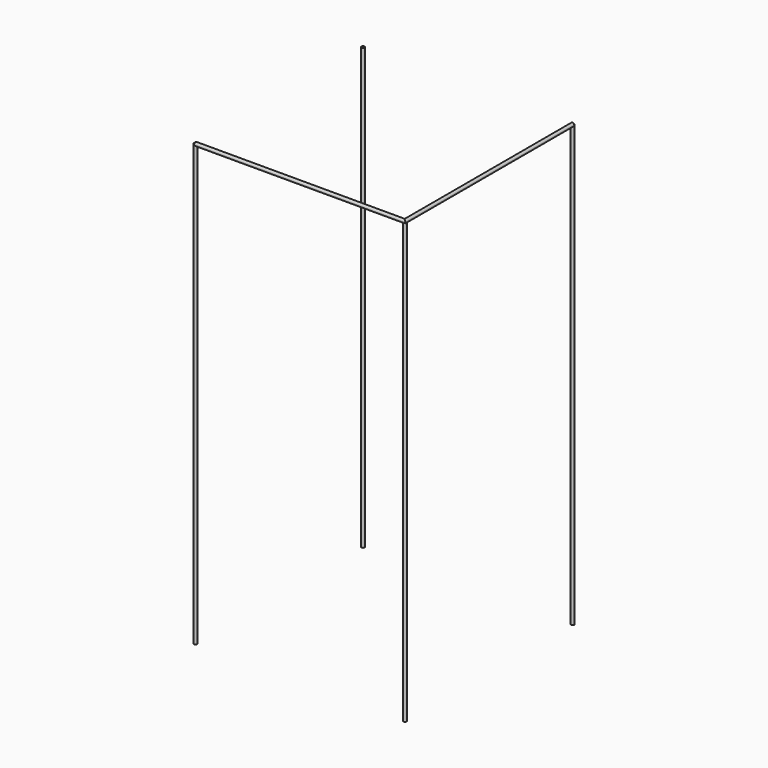
from build123d import *

# Parameters (mm, degrees)
F1_DEPTH = 2625
F4_R     = 10.0223853087


with BuildPart() as f1:
    # F0 (on Top) → F1 (new body)
    with BuildSketch(Plane.XY):
        with BuildLine():
            Line((0, 1250), (0, 1240))
            ThreePointArc((0, 1240), (7.0710678119, 1242.9289321881), (10, 1250))
            ThreePointArc((10, 1250), (0, 1260), (-10, 1250))
            Line((-10, 1250), (0, 1250))
        make_face()
        with BuildLine():
            ThreePointArc((-10, 1250), (-7.0710678119, 1242.9289321881), (0, 1240))
            Line((0, 1240), (0, 1250))
            Line((0, 1250), (-10, 1250))
        make_face()
    extrude(amount=F1_DEPTH)


with BuildPart() as f1b:
    # F0 (on Top) → F1, piece 2 (new body)
    with BuildSketch(Plane.XY):
        with BuildLine():
            Line((-1250, 1250), (-1240, 1250))
            ThreePointArc((-1240, 1250), (-1257.0710678119, 1257.0710678119), (-1250, 1240))
            Line((-1250, 1240), (-1250, 1250))
        make_face()
        with BuildLine():
            ThreePointArc((-1250, 1240), (-1242.9289321881, 1242.9289321881), (-1240, 1250))
            Line((-1240, 1250), (-1250, 1250))
            Line((-1250, 1250), (-1250, 1240))
        make_face()
    extrude(amount=F1_DEPTH)


with BuildPart() as f1c:
    # F0 (on Top) → F1, piece 3 (new body)
    with BuildSketch(Plane.XY):
        with BuildLine():
            ThreePointArc((-1250, 10), (-1257.0710678119, -7.0710678119), (-1240, 0))
            Line((-1240, 0), (-1250, 0))
            Line((-1250, 0), (-1250, 10))
        make_face()
        with BuildLine():
            Line((-1250, 0), (-1240, 0))
            ThreePointArc((-1240, 0), (-1242.9289321881, 7.0710678119), (-1250, 10))
            Line((-1250, 10), (-1250, 0))
        make_face()
    extrude(amount=F1_DEPTH)


with BuildPart() as f1d:
    # F0 (on Top) → F1, piece 4 (new body)
    with BuildSketch(Plane.XY):
        with BuildLine():
            Line((0, 10), (0, 0))
            Line((0, 0), (-10, 0))
            ThreePointArc((-10, 0), (0, -10), (10, 0))
            ThreePointArc((10, 0), (7.0710678119, 7.0710678119), (0, 10))
        make_face()
        with BuildLine():
            Line((-10, 0), (0, 0))
            Line((0, 0), (0, 10))
            ThreePointArc((0, 10), (-7.0710678119, 7.0710678119), (-10, 0))
        make_face()
    extrude(amount=F1_DEPTH)


with BuildPart() as f5:
    # F5: sweep along a path in F2
    with BuildLine(Plane.XY.offset(2625)) as f5_path:
        Line((0, 1249.7537136078), (0, 0))
        Line((0, 0), (-1249.6398687363, 0))
    # F4 (on line) → F5 (sweep)
    with BuildSketch(Plane(origin=(0, 0, 0), x_dir=(-1, 0, 0), z_dir=(0, 1, 0))):
        with Locations((0, 2625.116109848)):
            Circle(F4_R)
    sweep(path=f5_path.line, transition=Transition.RIGHT)


solid = Compound([f1.part, f1b.part, f1c.part, f1d.part, f5.part])
